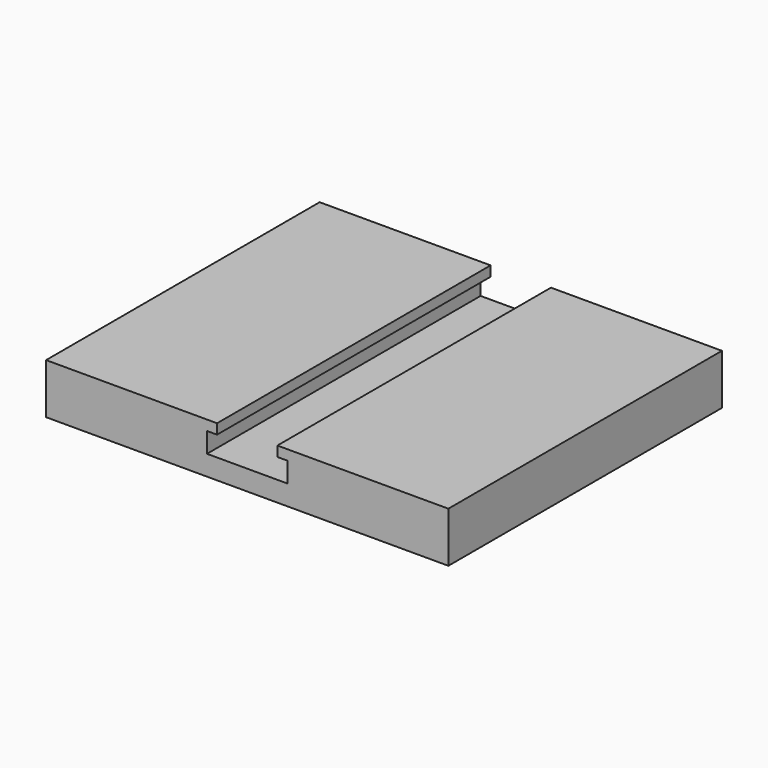
from build123d import *

# Parameters (mm, degrees)
F0_W     = 170
F0_H     = 25
F1_DEPTH = 200
F3_DEPTH = 170.001


with BuildPart() as f1:
    # F0 (on Right) → F1 (new body)
    with BuildSketch(Plane.YZ):
        with Locations((0, 2.5)):
            Rectangle(F0_W, F0_H)
    extrude(amount=-F1_DEPTH)

    # F2 (on face) → F3 (cut, through all)
    with BuildSketch(Plane(origin=(0, 85, 0), x_dir=(-1, 0, 0), z_dir=(0, 1, 0))):
        Polygon((115, 10), (115, 15), (100, 15), (85, 15), (85, 10), (80, 10), (80, 0), (100, 0), (120, 0), (120, 10), align=None)
    extrude(amount=-F3_DEPTH, mode=Mode.SUBTRACT)


solid = f1.part
